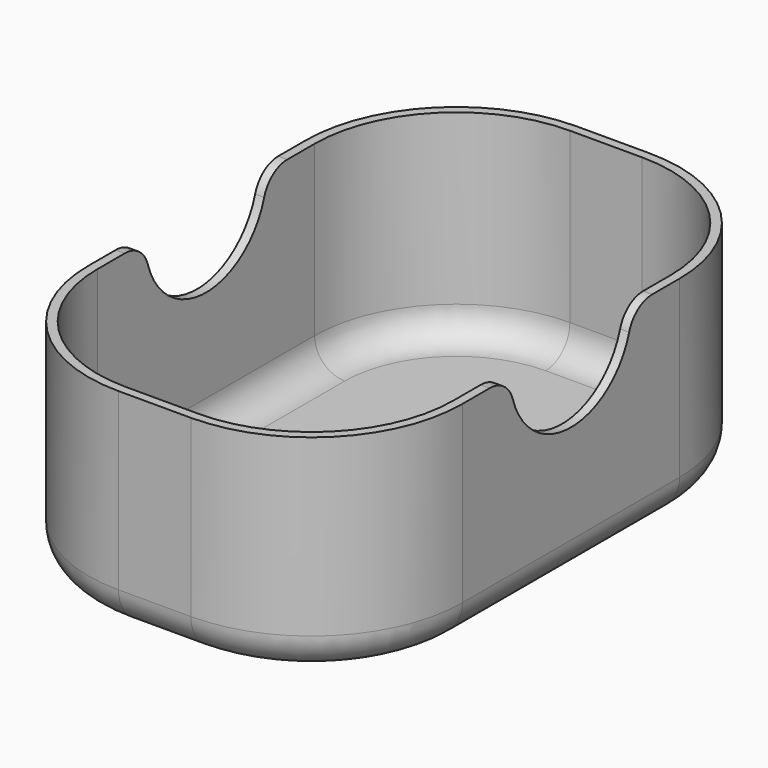
from build123d import *

# Parameters (mm, degrees)
F0_W     = 62
F0_H     = 95
F1_DEPTH = 35
F2_R     = 25
F4_DEPTH = 33
F6_DEPTH = 62.001
F7_R     = 5
F8_R     = 5
F9_R     = 6


with BuildPart() as f1:
    # F0 (on Top) → F1 (new body)
    with BuildSketch(Plane.XY):
        Rectangle(F0_W, F0_H)
    extrude(amount=F1_DEPTH)

    # F2
    f2_edges = [f1.edges().sort_by_distance(p)[0] for p in [
        (31, 47.5, 17.5),
        (-31, 47.5, 17.5),
        (31, -47.5, 17.5),
        (-31, -47.5, 17.5),
    ]]
    fillet(f2_edges, radius=F2_R)

    # F3 (on face) → F4 (cut)
    with BuildSketch(Plane.XY.offset(35)):
        with BuildLine():
            Line((29.5, -22.5), (29.5, 22.5))
            ThreePointArc((29.5, 22.5), (22.6170093579, 39.1170093579), (6, 46))
            Line((6, 46), (-6, 46))
            ThreePointArc((-6, 46), (-22.6170093579, 39.1170093579), (-29.5, 22.5))
            Line((-29.5, 22.5), (-29.5, -22.5))
            ThreePointArc((-29.5, -22.5), (-22.6170093579, -39.1170093579), (-6, -46))
            Line((-6, -46), (6, -46))
            ThreePointArc((6, -46), (22.6170093579, -39.1170093579), (29.5, -22.5))
        make_face()
    extrude(amount=-F4_DEPTH, mode=Mode.SUBTRACT)

    # F5 (on face) → F6 (cut, through all)
    with BuildSketch(Plane.YZ.offset(31)):
        with BuildLine():
            ThreePointArc((-12.5715859231, 35), (0, 22.4284140769), (12.5715859231, 35))
            Line((12.5715859231, 35), (-12.5715859231, 35))
        make_face()
    extrude(amount=-F6_DEPTH, mode=Mode.SUBTRACT)

    # F7
    f7_edges = [f1.edges().sort_by_distance(p)[0] for p in [
        (30.25, 12.571586, 35),
        (-30.25, 12.571586, 35),
        (30.25, -12.571586, 35),
        (-30.25, -12.571586, 35),
    ]]
    fillet(f7_edges, radius=F7_R)

    # F8
    f8_edges = [f1.edges().sort_by_distance(p)[0] for p in [
        (-22.617009, 39.117009, 2),
    ]]
    fillet(f8_edges, radius=F8_R)

    # F9
    f9_edges = [f1.edges().sort_by_distance(p)[0] for p in [
        (31, 0, 0),
    ]]
    fillet(f9_edges, radius=F9_R)


solid = f1.part
